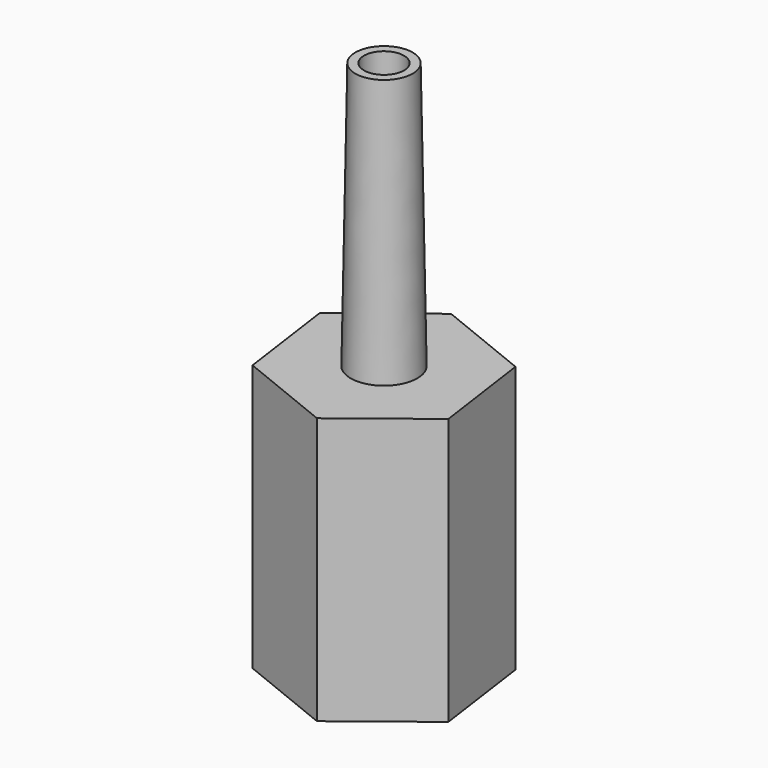
from build123d import *

# Parameters (mm, degrees)
F0_R     = 1.875
F1_DEPTH = 15
F1_TAPER = 1
F3_DEPTH = 15
F4_R     = 1.125
F5_DEPTH = 25


with BuildPart() as f1:
    # F0 (on Top) → F1 (new body)
    with BuildSketch(Plane.XY):
        Circle(F0_R)
    extrude(amount=F1_DEPTH, taper=F1_TAPER)

    # F2 (on Top) → F3 (join)
    with BuildSketch(Plane.XY):
        Polygon((4.5505611026, 3.5532699003), (-0.8019414489, 5.7175364665), (-5.3525025515, 2.1642665662), (-4.5505611026, -3.5532699003), (0.8019414489, -5.7175364665), (5.3525025515, -2.1642665662), align=None)
    extrude(amount=-F3_DEPTH)

    # F4 (on Top) → F5 (cut, symmetric)
    with BuildSketch(Plane.XY):
        Circle(F4_R)
    extrude(amount=F5_DEPTH, both=True, mode=Mode.SUBTRACT)


solid = f1.part
